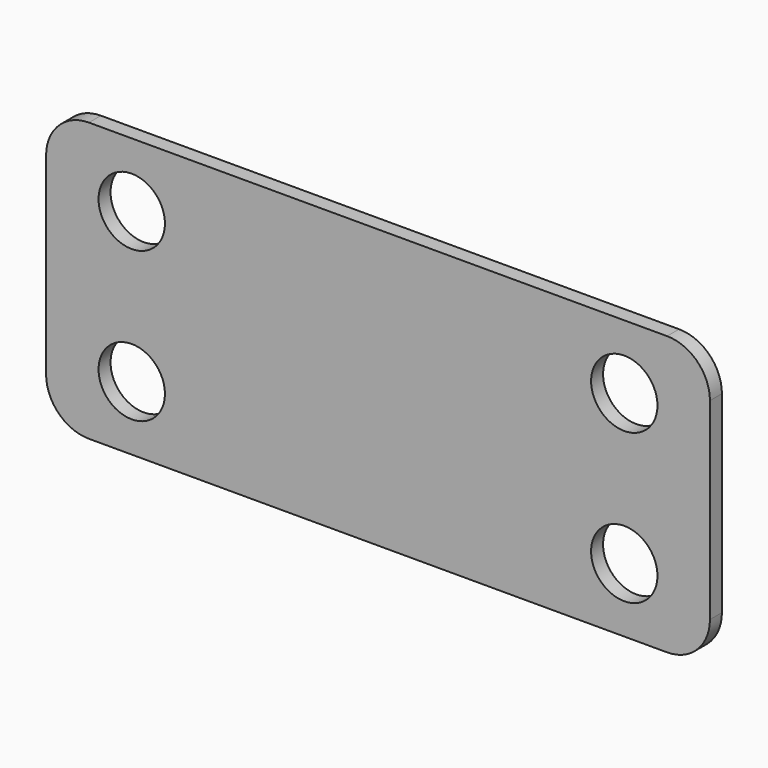
from build123d import *

# Parameters (mm, degrees)
F0_W     = 31
F0_H     = 13
F1_DEPTH = 0.7
F2_R     = 1.55
F3_DEPTH = 25
F4_R     = 2


with BuildPart() as f1:
    # F0 (on Front) → F1 (new body)
    with BuildSketch(Plane.XZ):
        with Locations((15.5, 6.5)):
            Rectangle(F0_W, F0_H)
    extrude(amount=F1_DEPTH)

    # F2 (on face) → F3 (cut)
    with BuildSketch(Plane.XZ.offset(0.7)):
        with Locations((4, 10)):
            Circle(F2_R)
        with Locations((4, 3)):
            Circle(F2_R)
        with Locations((27, 10)):
            Circle(F2_R)
        with Locations((27, 3)):
            Circle(F2_R)
    extrude(amount=-F3_DEPTH, mode=Mode.SUBTRACT)

    # F4
    f4_edges = [f1.edges().sort_by_distance(p)[0] for p in [
        (31, -0.35, 13),
        (31, -0.35, 0),
        (0, -0.35, 0),
        (0, -0.35, 13),
    ]]
    fillet(f4_edges, radius=F4_R)


solid = f1.part
